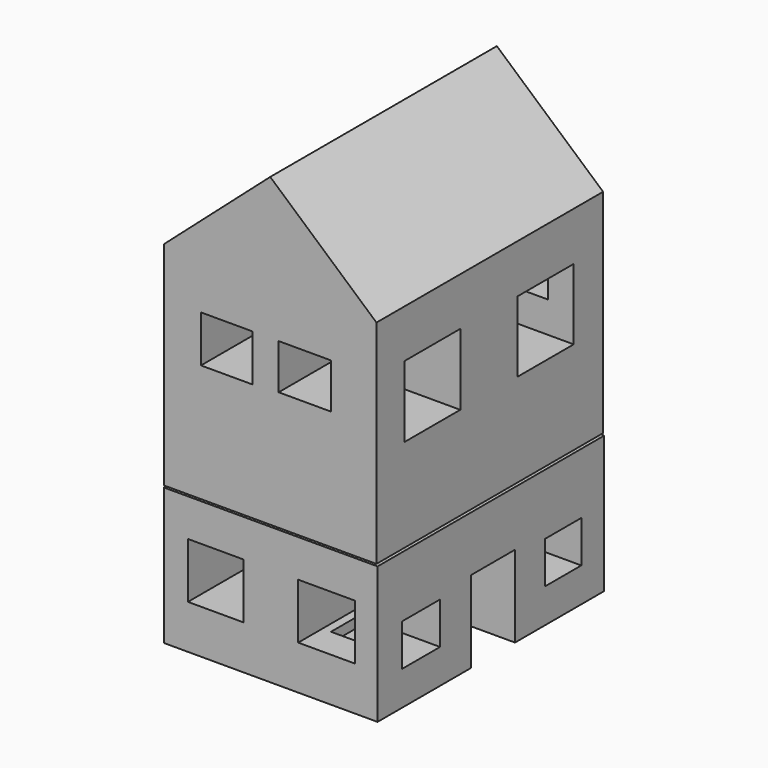
from build123d import *

# Parameters (mm, degrees)
F0_W      = 127
F0_H      = 127
F1_DEPTH  = 127
F2_DEPTH  = 76.2
F4_W      = 76.2
F4_H      = 76.2
F5_DEPTH  = 76.2
F7_W      = 76.2
F7_H      = 76.2
F8_DEPTH  = 101.6
F9_W      = 76.6572
F9_H      = 49.0982
F10_DEPTH = 101.6
F11_W     = 19.6814648807
F11_H     = 29.323477298
F12_DEPTH = 25.4
F13_W     = 18.5070778243
F13_H     = 16.753775999
F13_W_2   = 18.7018865254
F13_H_2   = 16.1693412811
F14_DEPTH = 25.4
F15_W     = 17.1433985233
F15_H     = 15.0004737079
F15_W_2   = 16.3641525432
F16_DEPTH = 25.4
F17_W     = 24.9358564615
F17_H     = 25.5680438131
F17_W_2   = 25.1412466168
F17_H_2   = 25.3926105797
F18_DEPTH = 25.4
F19_W     = 19.8707580566
F19_H     = 19.8707543314
F19_W_2   = 20.4551918432
F20_DEPTH = 25.4
F21_W     = 19.8707580566
F21_H     = 16.753775999
F21_W_2   = 19.4811346009
F21_H_2   = 17.5330210477
F22_DEPTH = 25.4
F23_W     = 16.1785436794
F23_H     = 14.625698328
F24_DEPTH = 25.4


with BuildPart() as f1:
    # F0 (on Front) → F1 (new body)
    with BuildSketch(Plane.XZ):
        with Locations((0.1441091299, 23.519541322)):
            Rectangle(F0_W, F0_H)
    extrude(amount=F1_DEPTH)

    # F2 (add): a face of the model
    f2_faces = [f1.faces().sort_by_distance(p)[0] for p in [
        (0.1441091299, -127, 23.519541322),
    ]]
    extrude(f2_faces, amount=F2_DEPTH)


with BuildPart() as f5:
    # F4 (on Front) → F5 (new body)
    with BuildSketch(Plane.XZ):
        with Locations((1.1012312025, 7.9579465741)):
            Rectangle(F4_W, F4_H)
    extrude(amount=F5_DEPTH)


with BuildPart() as f8:
    # F7 (on Front) → F8 (new body)
    with BuildSketch(Plane.XZ):
        Polygon((0, 76.4184445143), (-38.1, 42.8174028638), (38.1, 42.8174028638), align=None)
        with Locations((0, 4.7174028638)):
            Rectangle(F7_W, F7_H)
    extrude(amount=F8_DEPTH)

    # F13 (on face) → F14 (cut)
    with BuildSketch(Plane.XZ.offset(101.6)):
        with Locations((-15.5849086586, 17.1911558136)):
            Rectangle(F13_W, F13_H)
        with Locations((12.3705203878, 17.4833731726)):
            Rectangle(F13_W_2, F13_H_2)
    extrude(amount=-F14_DEPTH, mode=Mode.SUBTRACT)

    # F17 (on face) → F18 (cut)
    with BuildSketch(Plane.YZ.offset(38.1)):
        with Locations((-76.5007138252, 12.7840219066)):
            Rectangle(F17_W, F17_H)
        with Locations((-25.7634408772, 12.6963052899)):
            Rectangle(F17_W_2, F17_H_2)
    extrude(amount=-F18_DEPTH, mode=Mode.SUBTRACT)

    # F21 (on face) → F22 (cut)
    with BuildSketch(Plane(origin=(0, 0, 0), x_dir=(-1, 0, 0), z_dir=(0, 1, 0))):
        with Locations((-18.9941059798, 19.5288928226)):
            Rectangle(F21_W, F21_H)
        with Locations((21.9162753783, 19.9185153469)):
            Rectangle(F21_W_2, F21_H_2)
    extrude(amount=-F22_DEPTH, mode=Mode.SUBTRACT)


with BuildPart() as f10:
    # F9 (on Front) → F10 (new body)
    with BuildSketch(Plane.XZ):
        with Locations((0.1627736495, -58.5922269043)):
            Rectangle(F9_W, F9_H)
    extrude(amount=F10_DEPTH)

    # F11 (on face) → F12 (cut)
    with BuildSketch(Plane.YZ.offset(38.4913736495)):
        with Locations((-49.818245694, -68.4795882553)):
            Rectangle(F11_W, F11_H)
    extrude(amount=-F12_DEPTH, mode=Mode.SUBTRACT)

    # F15 (on face) → F16 (cut)
    with BuildSketch(Plane.YZ.offset(38.4913736495)):
        with Locations((-82.1502432227, -63.3633378893)):
            Rectangle(F15_W, F15_H)
        with Locations((-18.4469339438, -63.3633378893)):
            Rectangle(F15_W_2, F15_H)
    extrude(amount=-F16_DEPTH, mode=Mode.SUBTRACT)

    # F19 (on face) → F20 (cut)
    with BuildSketch(Plane.XZ.offset(101.6)):
        with Locations((-19.5785406977, -57.4215892702)):
            Rectangle(F19_W, F19_H)
        with Locations((20.2603810467, -57.4215892702)):
            Rectangle(F19_W_2, F19_H)
    extrude(amount=-F20_DEPTH, mode=Mode.SUBTRACT)

    # F23 (on face) → F24 (cut)
    with BuildSketch(Plane(origin=(0, 0, 0), x_dir=(-1, 0, 0), z_dir=(0, 1, 0))):
        with Locations((-21.6279965825, -51.3223111629)):
            Rectangle(F23_W, F23_H)
    extrude(amount=-F24_DEPTH, mode=Mode.SUBTRACT)


solid = Compound([f8.part, f10.part])
